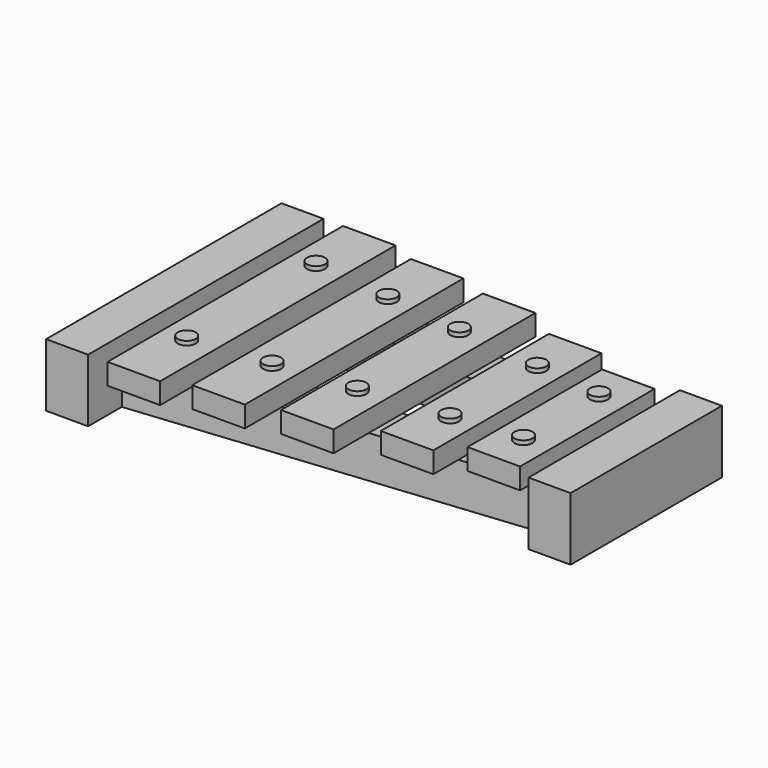
from build123d import *

# Parameters (mm, degrees)
F1_DEPTH = 15
F2_W     = 94.757164
F2_H     = 62.215524
F3_DEPTH = 5
F4_W     = 12.5
F4_H     = 70
F4_H_2   = 65
F4_H_3   = 50
F4_H_4   = 40
F4_H_5   = 60
F5_DEPTH = 5
F6_R     = 2.136343
F7_DEPTH = 1


with BuildPart() as f1:
    # F0 (on Top) → F1 (new body)
    with BuildSketch(Plane.XY):
        Polygon((-44.691786, 35), (-54.691786, 35), (-54.691786, -35), (-44.691786, -35), (-44.691786, -25), (-44.691786, -14.949869), (-44.691786, 14.949869), (-44.691786, 25), align=None)
        Polygon((50.065378, 15.5), (-44.691786, 25), (-44.691786, 14.949869), (50.065378, 5.449869), align=None)
        Polygon((50.065378, 22.5), (50.065378, 15.5), (50.065378, 5.449869), (50.065378, -5.449869), (50.065378, -15.5), (50.065378, -22.5), (60.065378, -22.5), (60.065378, 22.5), align=None)
        Polygon((-44.691786, -14.949869), (-44.691786, -25), (50.065378, -15.5), (50.065378, -5.449869), align=None)
    extrude(amount=F1_DEPTH)

    # F2 (on face) → F3 (cut)
    with BuildSketch(Plane.XY.offset(15)):
        with Locations((2.686796, -1.107762)):
            Rectangle(F2_W, F2_H)
        Polygon((50.065378, 30), (-44.691786, 30), (-44.691786, 25), (50.065378, 15.5), align=None)
        Polygon((50.065378, 15.5), (-44.691786, 25), (-44.691786, 14.949869), (50.065378, 5.449869), align=None)
        Polygon((50.065378, -5.449869), (-44.691786, -14.949869), (-44.691786, -32.215524), (50.065378, -32.215524), align=None)
        Polygon((50.065378, -5.449869), (-44.691786, -14.949869), (-44.691786, -32.215524), (50.065378, -32.215524), align=None)
    extrude(amount=-F3_DEPTH, mode=Mode.SUBTRACT)


with BuildPart() as f5:
    # F4 (on face) → F5 (new body)
    with BuildSketch(Plane.XY.offset(10)):
        with Locations((-33.818496, 0)):
            Rectangle(F4_W, F4_H)
        with Locations((-15.668441, 0)):
            Rectangle(F4_W, F4_H_2)
        with Locations((23.167173, 0)):
            Rectangle(F4_W, F4_H_3)
        with Locations((39.811006, 0)):
            Rectangle(F4_W, F4_H_4)
        with Locations((3.441142, 0)):
            Rectangle(F4_W, F4_H_5)
    extrude(amount=F5_DEPTH)


with BuildPart() as f7:
    # F6 (on face) → F7 (new body)
    with BuildSketch(Plane.XY.offset(15)):
        with Locations((-33.991949, 19.381031)):
            Circle(F6_R)
        with Locations((-15.260957, 17.3094)):
            Circle(F6_R)
        with Locations((23.755828, 12.99418)):
            Circle(F6_R)
        with Locations((39.850352, 11.214141)):
            Circle(F6_R)
        with Locations((3.414604, 15.243901)):
            Circle(F6_R)
        with Locations((-33.991949, -19.05846)):
            Circle(F6_R)
        with Locations((-15.260957, -17.073148)):
            Circle(F6_R)
        with Locations((3.414604, -15.093711)):
            Circle(F6_R)
        with Locations((23.755828, -12.937729)):
            Circle(F6_R)
        with Locations((39.850352, -11.231857)):
            Circle(F6_R)
    extrude(amount=F7_DEPTH)


solid = Compound([f1.part, f5.part, f7.part])
